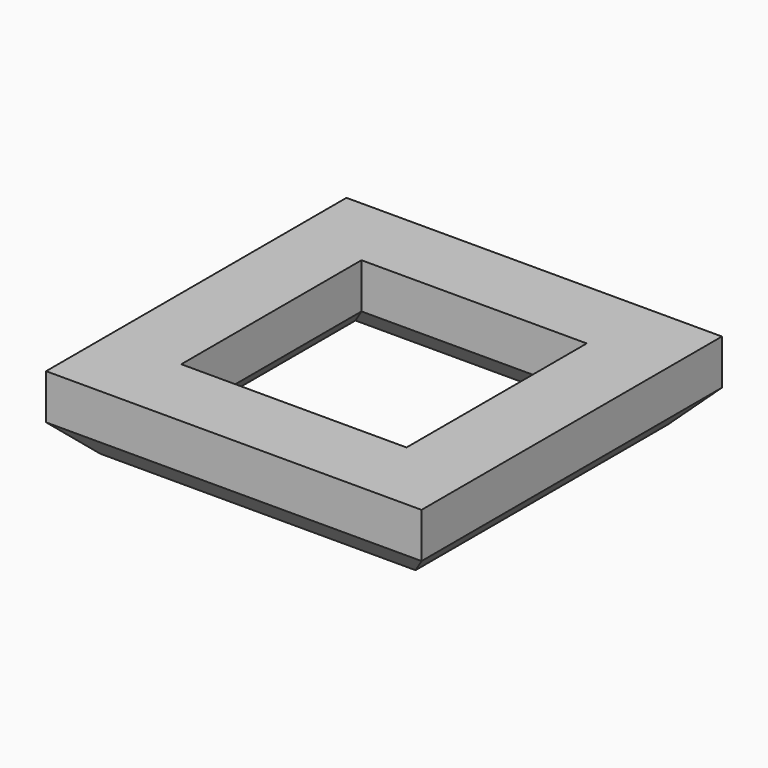
from build123d import *

# Parameters (mm, degrees)
F0_W     = 63.5
F0_H     = 63.5
F0_W_2   = 38.1
F0_H_2   = 38.1
F1_DEPTH = 12.7
F2_SIZE  = 5.08
F3_SIZE  = 5.08


with BuildPart() as f1:
    # F0 (on Top) → F1 (new body)
    with BuildSketch(Plane.XY):
        Rectangle(F0_W, F0_H)
        Rectangle(F0_W_2, F0_H_2, mode=Mode.SUBTRACT)
    extrude(amount=F1_DEPTH)

    # F2
    f2_edges = [f1.edges().sort_by_distance(p)[0] for p in [
        (19.05, 0, 0),
        (0, 19.05, 0),
        (-19.05, 0, 0),
        (0, -19.05, 0),
    ]]
    chamfer(f2_edges, length=F2_SIZE)

    # F3
    f3_edges = [f1.edges().sort_by_distance(p)[0] for p in [
        (0, 31.75, 0),
        (-31.75, 0, 0),
        (0, -31.75, 0),
        (31.75, 0, 0),
    ]]
    chamfer(f3_edges, length=F3_SIZE)


solid = f1.part
